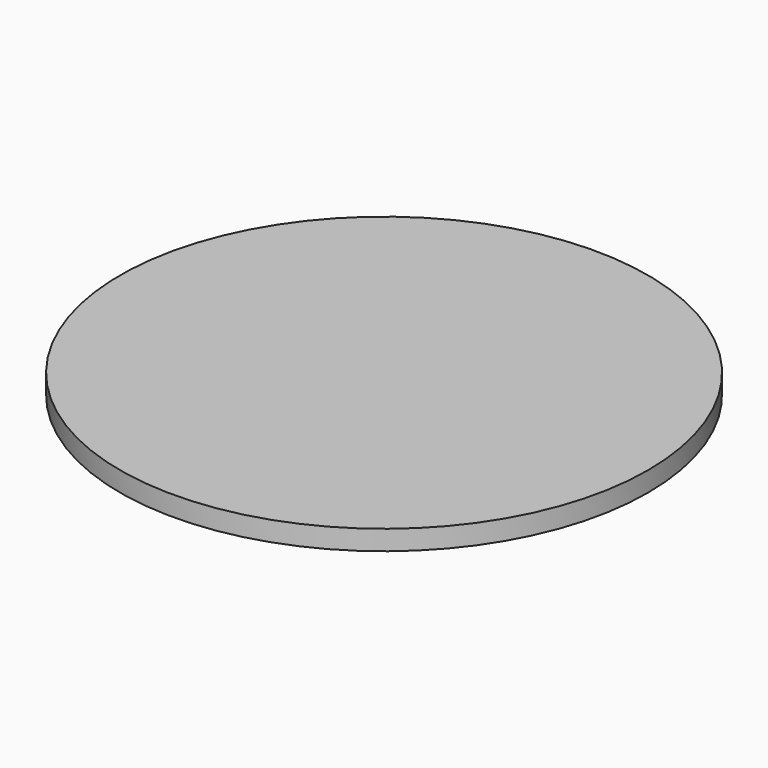
from build123d import *

# Parameters (mm, degrees)
F0_R     = 254
F1_DEPTH = 19.05
F2_R     = 3.175
F3_DEPTH = 50.8


with BuildPart() as f1:
    # F0 (on Top) → F1 (new body)
    with BuildSketch(Plane.XY):
        Circle(F0_R)
    extrude(amount=F1_DEPTH)


with BuildPart() as f3:
    # F2 (on face) → F3 (new body)
    with BuildSketch(Plane(origin=(0, 0, 0), x_dir=(1, 0, 0), z_dir=(0, 0, -1))):
        Circle(F2_R)
    extrude(amount=F3_DEPTH)


solid = Compound([f1.part, f3.part])
